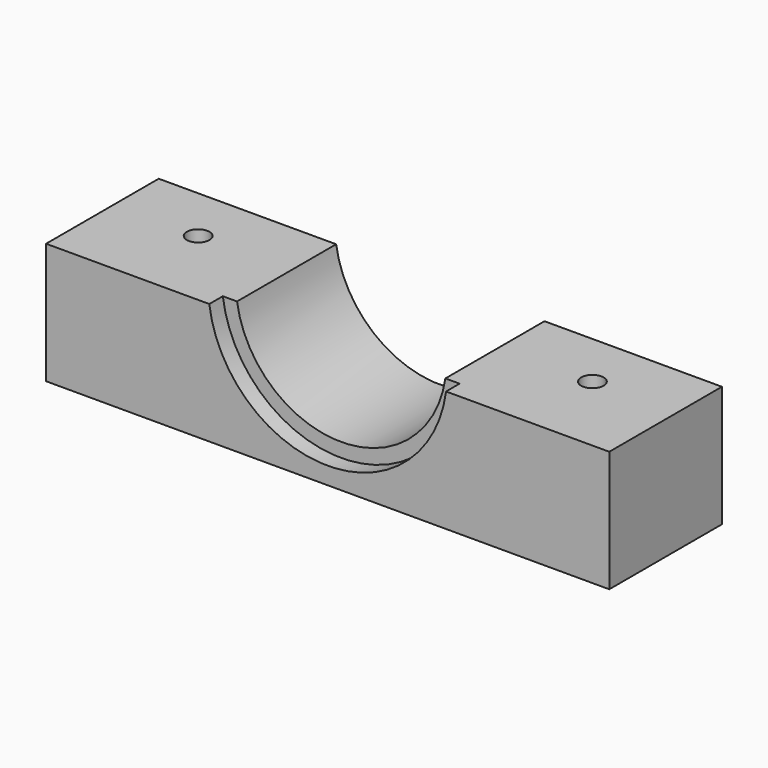
from build123d import *

# Parameters (mm, degrees)
SKETCH_W        = 100
SKETCH_H        = 25
PAD_DEPTH       = 21.5
SKETCH001_R     = 18.7
POCKET_DEPTH    = 25.001
SKETCH002_R     = 21.2
POCKET001_DEPTH = 3
SKETCH003_R     = 2
POCKET002_DEPTH = 21.501
POCKET003_DEPTH = 6


with BuildPart() as part:
    # Sketch → Pad (new body)
    with BuildSketch(Plane.XY):
        Rectangle(SKETCH_W, SKETCH_H)
    extrude(amount=PAD_DEPTH)

    # Sketch001 → Pocket (cut, through all)
    with BuildSketch(Plane.XZ.offset(12.5)):
        with Locations((0, 24.25)):
            Circle(SKETCH001_R)
    extrude(amount=-POCKET_DEPTH, mode=Mode.SUBTRACT)

    # Sketch002 → Pocket001 (cut)
    with BuildSketch(Plane.XZ.offset(12.5)):
        with Locations((0, 24.25)):
            Circle(SKETCH002_R)
    extrude(amount=-POCKET001_DEPTH, mode=Mode.SUBTRACT)

    # Sketch003 → Pocket002 (cut, through all)
    with BuildSketch(Plane(origin=(0, 0, 0), x_dir=(1, 0, 0), z_dir=(0, 0, -1))):
        with Locations((-35, -2.5)):
            Circle(SKETCH003_R)
        with Locations((35, -2.5)):
            Circle(SKETCH003_R)
    extrude(amount=-POCKET002_DEPTH, mode=Mode.SUBTRACT)

    # Sketch004 → Pocket003 (cut)
    with BuildSketch(Plane(origin=(0, 0, 0), x_dir=(1, 0, 0), z_dir=(0, 0, -1))):
        Polygon((-4.231557, 5.724423), (-4.877122, 7.393728), (-6.645565, 7.669305), (-7.768443, 6.275577), (-7.122878, 4.606272), (-5.354435, 4.330695), align=None)
        Polygon((6.393216, 4.253943), (7.708738, 5.467507), (7.315521, 7.213564), (5.606784, 7.746057), (4.291262, 6.532493), (4.684479, 4.786436), align=None)
        Polygon((-5.632013, -7.751548), (-4.299122, -6.557088), (-4.667109, -4.80554), (-6.367987, -4.248452), (-7.700878, -5.442912), (-7.332891, -7.19446), align=None)
        Polygon((6.905144, -7.544036), (7.789747, -5.98814), (6.884602, -4.444104), (5.094856, -4.455964), (4.210253, -6.01186), (5.115398, -7.555896), align=None)
    extrude(amount=-POCKET003_DEPTH, mode=Mode.SUBTRACT)


solid = part.part
